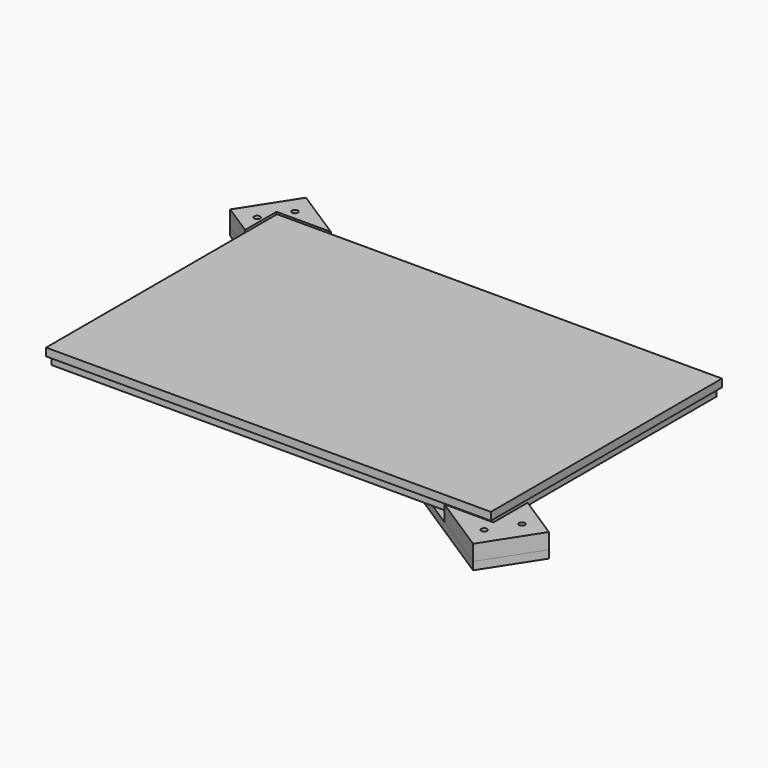
from build123d import *

# Parameters (mm, degrees)
F1_W     = 225
F1_H     = 145
F1_R     = 1.5
F2_DEPTH = 4
F3_R     = 1.5
F4_DEPTH = 4
F5_R     = 1.5
F6_DEPTH = 8
F7_DEPTH = 8
F8_START = 4
F1_W_2   = 228
F1_H_2   = 148
F8_DEPTH = 4
F9_SIZE  = 3


with BuildPart() as f2:
    # F1 (on Top) → F2 (new body)
    with BuildSketch(Plane.XY):
        with Locations((112.5, 72.5)):
            Rectangle(F1_W, F1_H)
        with Locations((220, 5)):
            Circle(F1_R, mode=Mode.SUBTRACT)
        with Locations((5, 140)):
            Circle(F1_R, mode=Mode.SUBTRACT)
        with Locations((112.5, 72.5)):
            Circle(F1_R, mode=Mode.SUBTRACT)
    extrude(amount=F2_DEPTH)


with BuildPart() as f4:
    # F3 (on Top) → F4 (new body)
    with BuildSketch(Plane.XY):
        Polygon((-1.4196310815, 164.9495525662), (-18.7540737608, 138.0512794432), (238.1876255728, -27.5333712384), (255.5220682521, -0.6350981154), (247.1163579011, 4.7819152219), align=None)
        with Locations((234.1155258917, -15.3917896204)):
            Circle(F3_R, mode=Mode.SUBTRACT)
        with BuildLine():
            ThreePointArc((214.1440217888, 6.9893514497), (213.6957172368, 9.062760003), (215.76912579, 9.511064555))
            Line((215.76912579, 9.511064555), (224.174836141, 4.0940512177))
            ThreePointArc((224.174836141, 4.0940512177), (224.6792556664, 3.551237839), (224.8622841404, 2.8331946651))
            ThreePointArc((224.8622841404, 2.8331946651), (224.0803273143, 1.516223139), (222.5497321398, 1.5723381125))
            Line((222.5497321398, 1.5723381125), (214.1440217888, 6.9893514497))
        make_face(mode=Mode.SUBTRACT)
        with BuildLine():
            ThreePointArc((244.2827472313, -1.9426530589), (241.4657757053, -2.6606962328), (243.5952992319, -0.6817965062))
            ThreePointArc((243.5952992319, -0.6817965062), (244.0997187574, -1.224609885), (244.2827472313, -1.9426530589))
        make_face(mode=Mode.SUBTRACT)
        with BuildLine():
            ThreePointArc((31.1514031593, 130.8729885482), (33.039117887, 132.1801270433), (35.2982202657, 131.7695976523))
            Line((35.2982202657, 131.7695976523), (198.3690010739, 26.6795389092))
            ThreePointArc((198.3690010739, 26.6795389092), (199.676139569, 24.7918241815), (199.265610178, 22.5327218028))
            Line((199.265610178, 22.5327218028), (193.8485968407, 14.1270114518))
            ThreePointArc((193.8485968407, 14.1270114518), (191.960882113, 12.8198729567), (189.7017797343, 13.2304023477))
            Line((189.7017797343, 13.2304023477), (26.6309989261, 118.3204610908))
            ThreePointArc((26.6309989261, 118.3204610908), (25.323860431, 120.2081758185), (25.734389822, 122.4672781972))
            Line((25.734389822, 122.4672781972), (31.1514031593, 130.8729885482))
        make_face(mode=Mode.SUBTRACT)
        with Locations((-6.01475274, 139.3588343867)):
            Circle(F3_R, mode=Mode.SUBTRACT)
        with BuildLine():
            ThreePointArc((0.825163859, 140.9059487823), (0.376859307, 142.9793573355), (2.4502678602, 143.4276618875))
            Line((2.4502678602, 143.4276618875), (10.8559782112, 138.0106485503))
            ThreePointArc((10.8559782112, 138.0106485503), (11.3603977366, 137.4678351715), (11.5434262106, 136.7497919976))
            ThreePointArc((11.5434262106, 136.7497919976), (10.7614693844, 135.4328204716), (9.23087421, 135.488935445))
            Line((9.23087421, 135.488935445), (0.825163859, 140.9059487823))
        make_face(mode=Mode.SUBTRACT)
        with Locations((2.6524685996, 152.8079709482)):
            Circle(F3_R, mode=Mode.SUBTRACT)
    extrude(amount=-F4_DEPTH)

    # F9
    f9_edges = [f4.edges().sort_by_distance(p)[0] for p in [
        (232.615526, -15.39179, -4),
        (241.970195, -3.20351, -4),
        (1.152469, 152.807971, -4),
        (-7.514753, 139.358834, -4),
    ]]
    chamfer(f9_edges, length=F9_SIZE)


with BuildPart() as f6:
    # F5 (on face) → F6 (new body)
    with BuildSketch(Plane.XY):
        Polygon((24.8813987626, 148), (-1.4196310815, 164.9495525662), (-18.7540737608, 138.0512794432), (-3, 127.8986541307), (-3, 148), align=None)
        with Locations((-6.01475274, 139.3588343867)):
            Circle(F5_R, mode=Mode.SUBTRACT)
        with Locations((2.6524685996, 152.8079709482)):
            Circle(F5_R, mode=Mode.SUBTRACT)
    extrude(amount=F6_DEPTH)


with BuildPart() as f7:
    # F5 (on face) → F7 (new body)
    with BuildSketch(Plane.XY):
        Polygon((255.5220682521, -0.6350981154), (233, 13.879123647), (233, -8), (207.877221927, -8), (238.1876255728, -27.5333712384), align=None)
        with Locations((234.1155258917, -15.3917896204)):
            Circle(F5_R, mode=Mode.SUBTRACT)
        with Locations((242.7827472313, -1.9426530589)):
            Circle(F5_R, mode=Mode.SUBTRACT)
    extrude(amount=F7_DEPTH)


with BuildPart() as f8:
    # F1 (on Top) → F8 (new body)
    with BuildSketch(Plane.XY.offset(F8_START)):
        with Locations((112.5, 72.5)):
            Rectangle(F1_W_2, F1_H_2)
        with Locations((112.5, 72.5)):
            Rectangle(F1_W, F1_H, mode=Mode.SUBTRACT)
        with Locations((112.5, 72.5)):
            Rectangle(F1_W, F1_H)
        with Locations((220, 5)):
            Circle(F1_R, mode=Mode.SUBTRACT)
        with Locations((5, 140)):
            Circle(F1_R, mode=Mode.SUBTRACT)
        with Locations((112.5, 72.5)):
            Circle(F1_R, mode=Mode.SUBTRACT)
        with Locations((5, 140)):
            Circle(F1_R)
        with Locations((220, 5)):
            Circle(F1_R)
        with Locations((112.5, 72.5)):
            Circle(F1_R)
    extrude(amount=F8_DEPTH)


solid = Compound([f2.part, f4.part, f6.part, f7.part, f8.part])
